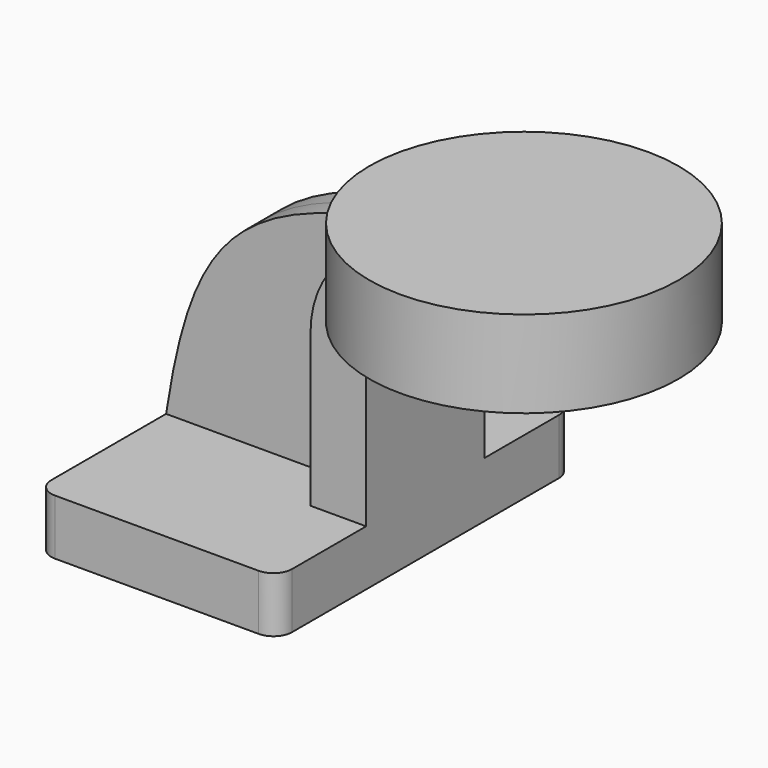
from build123d import *

# Parameters (mm, degrees)
F1_DEPTH = 63.5
F2_DEPTH = 25.4
F3_DEPTH = 7.9375
F0_W     = 53.001129165
F0_H     = 29.8131351553
F5_R     = 6.35


with BuildPart() as f1:
    # F0 (on Front) → F1 (new body, symmetric)
    with BuildSketch(Plane.XZ):
        Polygon((22.225, 9.525), (-41.275, 9.525), (-41.275, -9.525), (41.275, -9.525), (41.275, 9.525), align=None)
    extrude(amount=F1_DEPTH, both=True)

    # F0 (on Front) → F2 (join, symmetric)
    with BuildSketch(Plane.XZ):
        with BuildLine():
            Line((22.225, 61.9252), (22.225, 9.525))
            Line((22.225, 9.525), (41.275, 9.525))
            Line((41.275, 9.525), (41.275, 61.9252))
            ThreePointArc((41.275, 61.9252), (45.9246798487, 73.1505201513), (57.15, 77.8002))
            Line((57.15, 77.8002), (74.9244145172, 77.8002))
            Line((74.9244145172, 77.8002), (74.9244145172, 96.8502))
            Line((74.9244145172, 96.8502), (57.15, 96.8502))
            add(Edge.make_bspline(
                [(47.222675354, 95.4095821859), (50.4096853914, 95.9076958448), (53.7170651414, 96.3865930832), (57.15, 96.8502)],
                knots=[125.3666616532, 125.3666616532, 125.3666616532, 125.3666616532, 131.5795241671, 131.5795241671, 131.5795241671, 131.5795241671], degree=3))
            ThreePointArc((47.222675354, 95.4095821859), (29.1636869322, 82.8183066591), (22.225, 61.9252))
        make_face()
    extrude(amount=F2_DEPTH, both=True)

    # F0 (on Front) → F3 (join, symmetric)
    with BuildSketch(Plane.XZ):
        with BuildLine():
            add(Edge.make_bspline(
                [(-41.275, 9.525), (-32.3844300355, 67.4827050573), (-17.0866197814, 85.3583624135), (47.222675354, 95.4095821859)],
                knots=[0, 0, 0, 0, 125.3666616532, 125.3666616532, 125.3666616532, 125.3666616532], degree=3))
            Line((-41.275, 9.525), (22.225, 9.525))
            Line((22.225, 9.525), (22.225, 61.9252))
            ThreePointArc((22.225, 61.9252), (29.1636869322, 82.8183066591), (47.222675354, 95.4095821859))
        make_face()
    extrude(amount=F3_DEPTH, both=True)

    # F0 (on Front) → F4 (revolve)
    with BuildSketch(Plane.XZ):
        with Locations((101.560038097, 86.7887464721)):
            Rectangle(F0_W, F0_H)
    revolve(axis=Axis((75.0594735146, 0, 86.7887464721), (0, 0, 1)))

    # F5
    f5_edges = [f1.edges().sort_by_distance(p)[0] for p in [
        (41.275, -63.5, 0),
        (-41.275, -63.5, 0),
        (41.275, 63.5, 0),
        (-41.275, 63.5, 0),
    ]]
    fillet(f5_edges, radius=F5_R)


solid = f1.part
